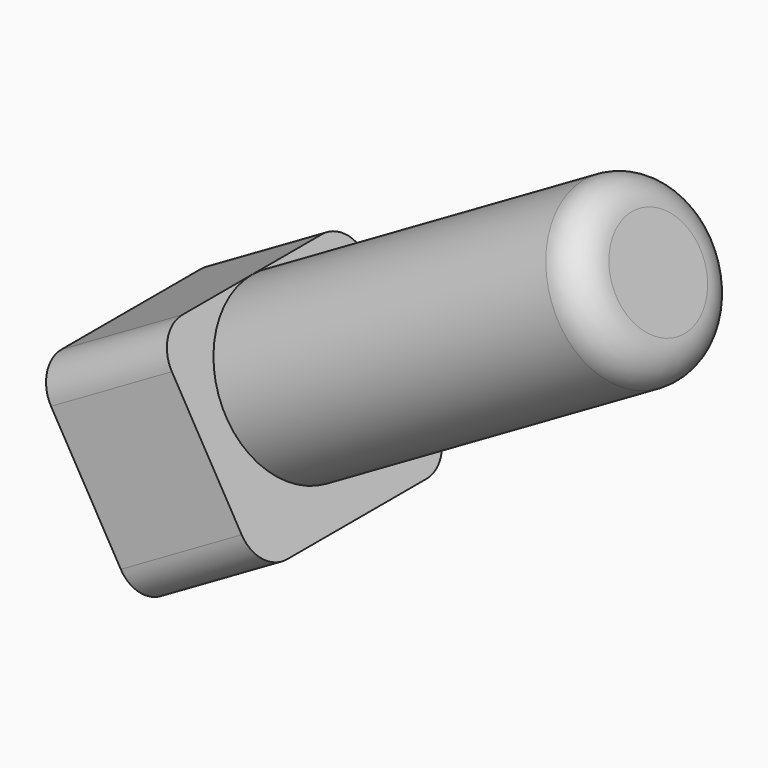
from build123d import *

# Parameters (mm, degrees)
SKETCH023_R             = 2.5
PAD006_DEPTH            = 12
SKETCH024_W             = 7
SKETCH024_H             = 6
PAD007_DEPTH            = 4
FILLET005_R             = 1
FILLET006_R             = 1
BODY004_PLACEMENT_ANGLE = 330


with BuildPart() as part:
    # Sketch023 → Pad006 (new body)
    with BuildSketch(Plane.YZ):
        Circle(SKETCH023_R)
    extrude(amount=PAD006_DEPTH)

    # Sketch024 (on Face2 of Pad006) → Pad007 (join)
    with BuildSketch(Plane(origin=(0, 0, 0), x_dir=(0, 1, 0), z_dir=(-1, 0, 0))):
        with Locations((0, 0.5)):
            Rectangle(SKETCH024_W, SKETCH024_H)
    extrude(amount=PAD007_DEPTH)

    # Fillet005
    fillet005_edges = [part.edges().sort_by_distance(p)[0] for p in [
        (-2, 3.5, 2.5),
        (-2, 3.5, -3.5),
        (-2, -3.5, -3.5),
        (-2, -3.5, 2.5),
    ]]
    fillet(fillet005_edges, radius=FILLET005_R)

    # Fillet006
    fillet006_edges = [part.edges().sort_by_distance(p)[0] for p in [
        (12, -2.5, 0),
    ]]
    fillet(fillet006_edges, radius=FILLET006_R)


with BuildPart() as part_1:
    # Body004 placement: moved
    add(part.part.moved(Location((23.239092, -5, -19.251289))).rotate(Axis((23.239092, -5, -19.251289), (0, 1, 0)), BODY004_PLACEMENT_ANGLE))


solid = part_1.part
